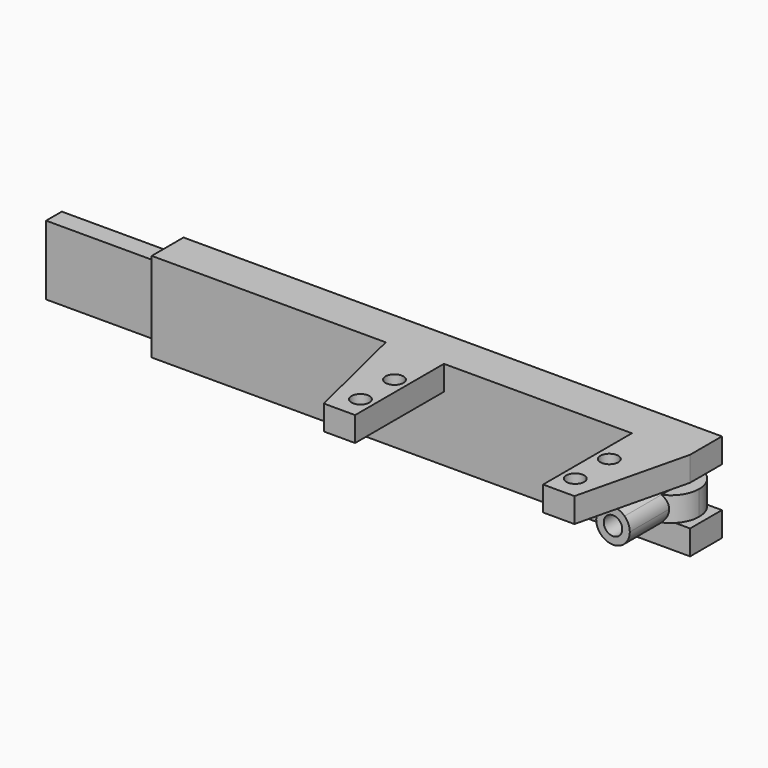
from build123d import *

# Parameters (mm, degrees)
F0_W      = 120.2900058
F0_H      = 8.89
F1_DEPTH  = 10
F2_W      = 4.39
F2_H      = 15.5
F3_DEPTH  = 25.4
F4_W      = 19.05
F4_H      = 9
F5_DEPTH  = 8.891
F6_R      = 2.54
F7_DEPTH  = 9
F9_R      = 3.175
F10_DEPTH = 5.46
F13_DEPTH = 12.7
F14_R     = 2.0625
F15_DEPTH = 10.16
F16_W     = 13
F16_H     = 5.5
F17_DEPTH = 24.81
F19_DEPTH = 6
F20_R     = 2
F21_DEPTH = 6
F23_DEPTH = 9


with BuildPart() as f1:
    # F0 (on Top) → F1 (new body, symmetric)
    with BuildSketch(Plane.XY):
        Rectangle(F0_W, F0_H)
    extrude(amount=F1_DEPTH, both=True)

    # F2 (on face) → F3 (join)
    with BuildSketch(Plane(origin=(-60.1450029, 0, 0), x_dir=(0, -1, 0), z_dir=(-1, 0, 0))):
        Rectangle(F2_W, F2_H)
    extrude(amount=F3_DEPTH)

    # F4 (on face) → F5 (cut, through all)
    with BuildSketch(Plane.XZ.offset(4.445)):
        with Locations((50.6200029, 0)):
            Rectangle(F4_W, F4_H)
    extrude(amount=-F5_DEPTH, mode=Mode.SUBTRACT)

    # F6 (on face) → F7 (join, through all)
    with BuildSketch(Plane.XY.offset(-4.5)):
        with Locations((53.7950029, -1.905)):
            Circle(F6_R)
    extrude(amount=F7_DEPTH)

    # F16 (on face) → F17 (join)
    with BuildSketch(Plane.XZ.offset(4.445)):
        with Locations((-1.3549971, 7.25)):
            Rectangle(F16_W, F16_H)
        with Locations((53.6450029, 7.25)):
            Rectangle(F16_W, F16_H)
    extrude(amount=F17_DEPTH)

    # F18 (on face) → F19 (cut)
    with BuildSketch(Plane.XY.offset(10)):
        Polygon((-1.8549971, -29.255), (-7.8549971, -4.445), (-7.8549971, -29.255), align=None)
        Polygon((60.1450029, -29.255), (60.1450029, -4.445), (54.1450029, -29.255), align=None)
    extrude(amount=-F19_DEPTH, mode=Mode.SUBTRACT)

    # F20 (on face) → F21 (cut)
    with BuildSketch(Plane.XY.offset(10)):
        with Locations((50.1450029, -24.005)):
            Circle(F20_R)
        with Locations((50.1450029, -14.505)):
            Circle(F20_R)
        with Locations((2.1450029, -24.005)):
            Circle(F20_R)
        with Locations((2.1450029, -14.505)):
            Circle(F20_R)
    extrude(amount=-F21_DEPTH, mode=Mode.SUBTRACT)

    # F22 (on face) → F23 (cut)
    with BuildSketch(Plane.XY.offset(-4.5)):
        Polygon((35.9623590069, 4.445), (41.0950029, -4.445), (41.0950029, 4.445), align=None)
    extrude(amount=F23_DEPTH, mode=Mode.SUBTRACT)


with BuildPart() as f10:
    # F9 (on offset) → F10 (new body)
    with BuildSketch(Plane.XY.offset(-3.23)):
        with BuildLine():
            ThreePointArc((53.7950029, 4.445), (49.3048748395, -6.3951280605), (60.1450029, -1.905))
            ThreePointArc((60.1450029, -1.905), (58.2851309605, 2.5851280605), (53.7950029, 4.445))
        make_face()
        with Locations((53.7950029, -1.905)):
            Circle(F9_R, mode=Mode.SUBTRACT)
    extrude(amount=F10_DEPTH)

    # F12 (on offset) → F13 (join)
    with BuildSketch(Plane.XZ.offset(5.334)):
        with BuildLine():
            ThreePointArc((51.2240886657, -3.23), (53.7950029, -4.25), (56.3659171343, -3.23))
            Line((56.3659171343, -3.23), (51.2240886657, -3.23))
        make_face()
        with BuildLine():
            Line((51.2240886657, -3.23), (56.3659171343, -3.23))
            ThreePointArc((56.3659171343, -3.23), (57.2376347696, -1.986871148), (57.5450029, -0.5))
            ThreePointArc((57.5450029, -0.5), (57.2376347696, 0.986871148), (56.3659171343, 2.23))
            Line((56.3659171343, 2.23), (51.2240886657, 2.23))
            ThreePointArc((51.2240886657, 2.23), (50.0450029, -0.5), (51.2240886657, -3.23))
        make_face()
        with BuildLine():
            ThreePointArc((56.3659171343, 2.23), (53.7950029, 3.25), (51.2240886657, 2.23))
            Line((51.2240886657, 2.23), (56.3659171343, 2.23))
        make_face()
    extrude(amount=F13_DEPTH)

    # F14 (on face) → F15 (cut)
    with BuildSketch(Plane.XZ.offset(18.034)):
        with Locations((53.7950029, -0.5)):
            Circle(F14_R)
    extrude(amount=-F15_DEPTH, mode=Mode.SUBTRACT)


solid = Compound([f1.part, f10.part])
